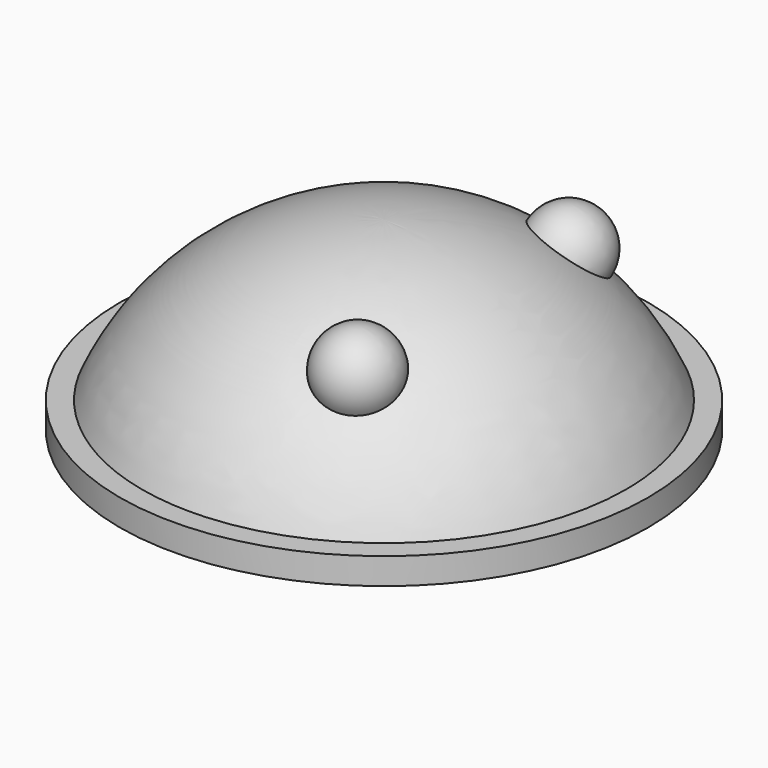
from build123d import *

# Parameters (mm, degrees)
CYLINDER_R     = 10
CYLINDER_DEPTH = 1


with BuildPart() as esfera001:
    # Sphere002 → Sphere002 (revolve)
    with BuildSketch(Plane(origin=(3, -5, 5), x_dir=(1, 0, 0), z_dir=(0, -1, 0))):
        with BuildLine():
            ThreePointArc((0, -1.5), (1.5, 0), (0, 1.5))
            Line((0, 1.5), (0, -1.5))
        make_face()
    revolve(axis=Axis((3, -5, 5), (0, 0, 1)))


with BuildPart() as fusion001:
    # Sphere001 → Sphere001 (revolve)
    with BuildSketch(Plane(origin=(3, 5, 5), x_dir=(1, 0, 0), z_dir=(0, -1, 0))):
        with BuildLine():
            ThreePointArc((0, -1.5), (1.5, 0), (0, 1.5))
            Line((0, 1.5), (0, -1.5))
        make_face()
    revolve(axis=Axis((3, 5, 5), (0, 0, 1)))

    # Fusion001: union Esfera001
    add(esfera001.part)


with BuildPart() as cilindro:
    # Cylinder → Cylinder (new body)
    with BuildSketch(Plane.XY):
        Circle(CYLINDER_R)
    extrude(amount=CYLINDER_DEPTH)


with BuildPart() as fusion002:
    # Sphere → Sphere (revolve)
    with BuildSketch(Plane(origin=(0, 0, -3), x_dir=(1, 0, 0), z_dir=(0, -1, 0))):
        with BuildLine():
            ThreePointArc((9.396926, 3.420201), (5.735764, 8.19152), (0, 10))
            Line((0, 10), (0, 3.420201))
            Line((0, 3.420201), (9.396926, 3.420201))
        make_face()
    revolve(axis=Axis((0, 0, -3), (0, 0, 1)))

    # Fusion: union Cilindro
    add(cilindro.part)

    # Fusion002: union Fusion001
    add(fusion001.part)


solid = fusion002.part
